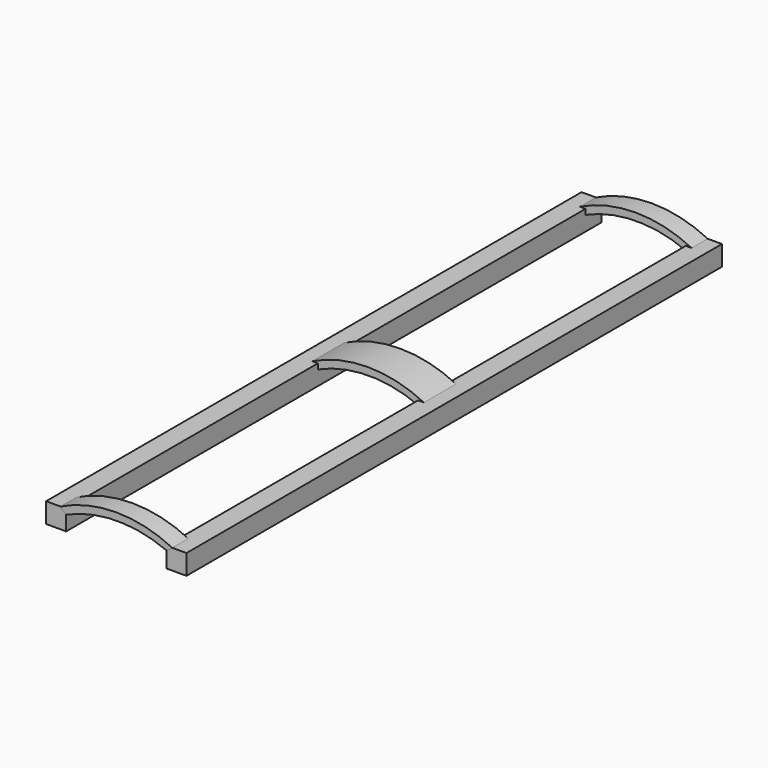
from build123d import *

# Parameters (mm, degrees)
F0_W     = 3
F0_H     = 100
F1_DEPTH = 3
F3_DEPTH = 3
F4_START = -47
F4_DEPTH = 6
F5_START = -97
F5_DEPTH = 3


with BuildPart() as f1:
    # F0 (on Top) → F1 (new body)
    with BuildSketch(Plane.XY):
        with Locations((1.5, 50)):
            Rectangle(F0_W, F0_H)
    extrude(amount=F1_DEPTH)


with BuildPart() as f1b:
    # F0 (on Top) → F1, piece 2 (new body)
    with BuildSketch(Plane.XY):
        with Locations((19.4732441902, 50)):
            Rectangle(F0_W, F0_H)
    extrude(amount=F1_DEPTH)


with BuildPart() as f3:
    # F2 (on Front) → F3 (new body)
    with BuildSketch(Plane.XZ):
        with BuildLine():
            ThreePointArc((2.9794946313, 2.1942069288), (10.4704971824, 3.8575045035), (17.9987903684, 2.37208209))
            Line((17.9987903684, 2.37208209), (18.889406696, 2.9833931476))
            ThreePointArc((18.889406696, 2.9833931476), (10.4870498812, 4.9495737182), (2.087746514, 2.970389789))
            Line((2.087746514, 2.970389789), (2.9794946313, 2.1942069288))
        make_face()
    extrude(amount=-F3_DEPTH)


with BuildPart() as f4:
    # F2 (on Front) → F4 (new body)
    with BuildSketch(Plane.XZ.offset(F4_START)):
        with BuildLine():
            ThreePointArc((2.9794946313, 2.1942069288), (10.4704971824, 3.8575045035), (17.9987903684, 2.37208209))
            Line((17.9987903684, 2.37208209), (18.889406696, 2.9833931476))
            ThreePointArc((18.889406696, 2.9833931476), (10.4870498812, 4.9495737182), (2.087746514, 2.970389789))
            Line((2.087746514, 2.970389789), (2.9794946313, 2.1942069288))
        make_face()
    extrude(amount=-F4_DEPTH)


with BuildPart() as f5:
    # F2 (on Front) → F5 (new body)
    with BuildSketch(Plane.XZ.offset(F5_START)):
        with BuildLine():
            ThreePointArc((2.9794946313, 2.1942069288), (10.4704971824, 3.8575045035), (17.9987903684, 2.37208209))
            Line((17.9987903684, 2.37208209), (18.889406696, 2.9833931476))
            ThreePointArc((18.889406696, 2.9833931476), (10.4870498812, 4.9495737182), (2.087746514, 2.970389789))
            Line((2.087746514, 2.970389789), (2.9794946313, 2.1942069288))
        make_face()
    extrude(amount=-F5_DEPTH)


solid = Compound([f1.part, f1b.part, f3.part, f4.part, f5.part])
